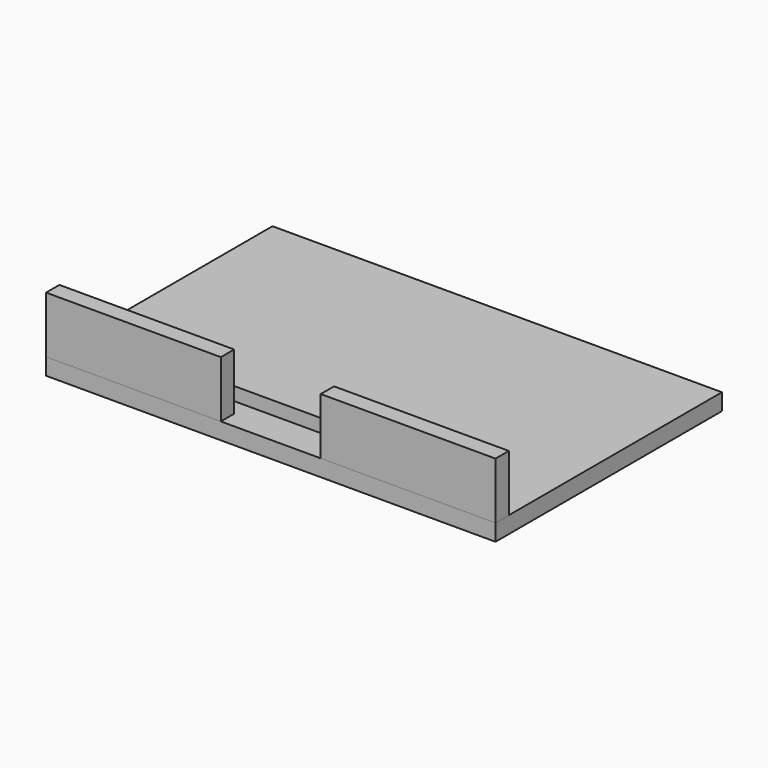
from build123d import *

# Parameters (mm, degrees)
F2_W     = 66.675
F2_H     = 6.35
F3_DEPTH = 27.94
F0_W     = 171.45
F0_H     = 107.95
F4_DEPTH = 6.35
F5_DEPTH = 6.35


with BuildPart() as f3:
    # F2 (on face) → F3 (new body)
    with BuildSketch(Plane.XY):
        with Locations((-82.481257, -38.830014)):
            Rectangle(F2_W, F2_H)
        with Locations((22.293743, -38.830014)):
            Rectangle(F2_W, F2_H)
    extrude(amount=F3_DEPTH)


with BuildPart() as f4:
    # F0 (on Top) → F4 (new body)
    with BuildSketch(Plane.XY):
        with Locations((-30.093757, 11.969986)):
            Rectangle(F0_W, F0_H)
    extrude(amount=F4_DEPTH)

    # F1 (on Top) → F5 (cut)
    with BuildSketch(Plane.XY):
        with BuildLine():
            ThreePointArc((-80.893757, -26.765014), (-80.149809, -28.561065), (-78.353757, -29.305014))
            Line((-78.353757, -29.305014), (18.166243, -29.305014))
            ThreePointArc((18.166243, -29.305014), (19.962294, -28.561065), (20.706243, -26.765014))
            Line((20.706243, -26.765014), (20.706243, -24.225014))
            ThreePointArc((20.706243, -24.225014), (19.962294, -22.428962), (18.166243, -21.685014))
            Line((18.166243, -21.685014), (-78.353757, -21.685014))
            ThreePointArc((-78.353757, -21.685014), (-80.149809, -22.428962), (-80.893757, -24.225014))
            Line((-80.893757, -24.225014), (-80.893757, -26.765014))
        make_face()
    extrude(amount=F5_DEPTH, mode=Mode.SUBTRACT)


solid = Compound([f3.part, f4.part])
